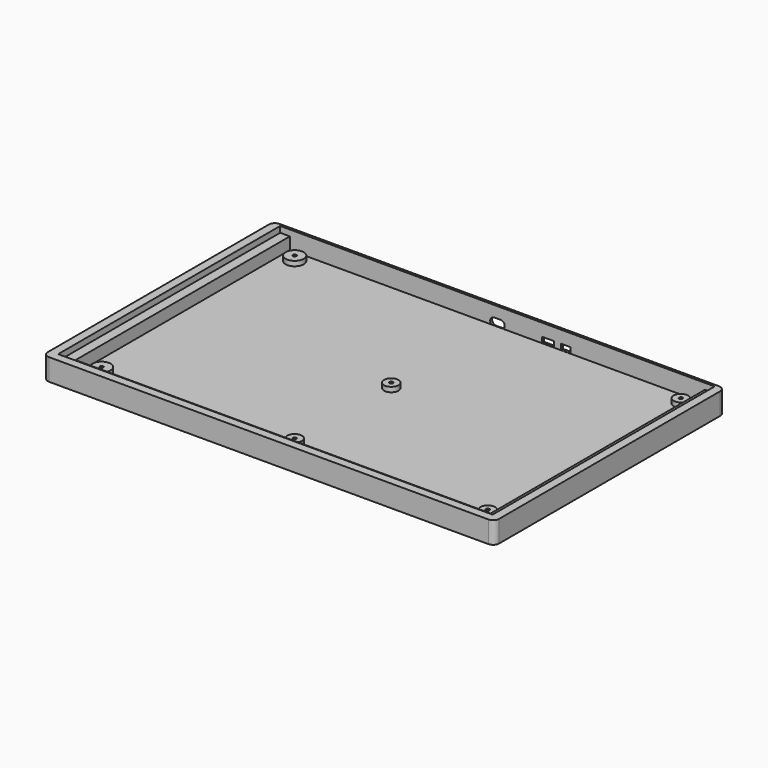
from build123d import *

# Parameters (mm, degrees)
SKETCH_W        = 374
SKETCH_H        = 239
PAD_DEPTH       = 18
SKETCH001_W     = 344
SKETCH001_H     = 222
POCKET_DEPTH    = 15
SKETCH002_R     = 6
SKETCH002_R_2   = 7.5
PAD001_DEPTH    = 4
SKETCH003_R     = 1.45
HOLE_DEPTH      = 25
POCKET001_DEPTH = 4.5
SKETCH005_W     = 360
SKETCH005_H     = 230
POCKET002_DEPTH = 5
SKETCH006_W     = 7.9
SKETCH006_H     = 4.6
SKETCH006_W_2   = 9.8
SKETCH006_H_2   = 4.5
POCKET003_DEPTH = 2
SKETCH011_R     = 6
HOLE004_DEPTH   = 2
FILLET_R        = 5


with BuildPart() as part:
    # Sketch → Pad (new body)
    with BuildSketch(Plane.XY):
        with Locations((0, -117.5)):
            Rectangle(SKETCH_W, SKETCH_H)
    extrude(amount=PAD_DEPTH)

    # Sketch001 (on Face6 of Pad) → Pocket (cut)
    with BuildSketch(Plane.XY.offset(18)):
        with Locations((0, -111)):
            Rectangle(SKETCH001_W, SKETCH001_H)
    extrude(amount=-POCKET_DEPTH, mode=Mode.SUBTRACT)

    # Sketch002 (on Face11 of Pocket) → Pad001 (join)
    with BuildSketch(Plane.XY.offset(3)):
        with Locations((0, -110)):
            Circle(SKETCH002_R)
        with Locations((160, -10)):
            Circle(SKETCH002_R)
        with Locations((160, -210)):
            Circle(SKETCH002_R)
        with Locations((0, -210)):
            Circle(SKETCH002_R)
        with Locations((-160, -10)):
            Circle(SKETCH002_R_2)
        with Locations((-160, -210)):
            Circle(SKETCH002_R_2)
    extrude(amount=PAD001_DEPTH)

    # Sketch003 (on Face4 of Pad001) → Hole (cut)
    with BuildSketch(Plane(origin=(0, 0, 0), x_dir=(1, 0, 0), z_dir=(0, 0, -1))):
        with Locations((0, 110)):
            Circle(SKETCH003_R)
        with Locations((0, 210)):
            Circle(SKETCH003_R)
        with Locations((-160, 10)):
            Circle(SKETCH003_R)
        with Locations((-160, 210)):
            Circle(SKETCH003_R)
        with Locations((160, 10)):
            Circle(SKETCH003_R)
        with Locations((160, 210)):
            Circle(SKETCH003_R)
    extrude(amount=-HOLE_DEPTH, mode=Mode.SUBTRACT)

    # Sketch004 (on Face4 of Hole) → Pocket001 (cut)
    with BuildSketch(Plane(origin=(0, 0, 0), x_dir=(1, 0, 0), z_dir=(0, 0, -1))):
        Polygon((2.6, 111.501111), (0, 113.002221), (-2.6, 111.501111), (-2.6, 108.498889), (0, 106.997779), (2.6, 108.498889), align=None)
        Polygon((2.6, 208.498889), (2.6, 211.501111), (0, 213.002221), (-2.6, 211.501111), (-2.6, 208.498889), (0, 206.997779), align=None)
        Polygon((162.6, 208.498889), (162.6, 211.501111), (160, 213.002221), (157.4, 211.501111), (157.4, 208.498889), (160, 206.997779), align=None)
        Polygon((162.6, 8.498889), (162.6, 11.501111), (160, 13.002221), (157.4, 11.501111), (157.4, 8.498889), (160, 6.997779), align=None)
        Polygon((-157.4, 8.498889), (-157.4, 11.501111), (-160, 13.002221), (-162.6, 11.501111), (-162.6, 8.498889), (-160, 6.997779), align=None)
        Polygon((-157.4, 208.498889), (-157.4, 211.501111), (-160, 213.002221), (-162.6, 211.501111), (-162.6, 208.498889), (-160, 206.997779), align=None)
    extrude(amount=-POCKET001_DEPTH, mode=Mode.SUBTRACT)

    # Sketch005 (on Face5 of Pocket001) → Pocket002 (cut)
    with BuildSketch(Plane.XY.offset(18)):
        with Locations((0, -115)):
            Rectangle(SKETCH005_W, SKETCH005_H)
    extrude(amount=-POCKET002_DEPTH, mode=Mode.SUBTRACT)

    # Sketch006 (on Pad) → Pocket003 (cut)
    with BuildSketch(Plane.XZ):
        with BuildLine():
            ThreePointArc((-2.6, 8.9), (-6, 5.5), (-2.6, 2.1))
            Line((-2.6, 2.1), (2.6, 2.1))
            ThreePointArc((2.6, 2.1), (6, 5.5), (2.6, 8.9))
            Line((2.6, 8.9), (-2.6, 8.9))
        make_face()
        with Locations((56.5, 5.5)):
            Rectangle(SKETCH006_W, SKETCH006_H)
        with Locations((42, 5.5)):
            Rectangle(SKETCH006_W_2, SKETCH006_H_2)
    extrude(amount=-POCKET003_DEPTH, mode=Mode.SUBTRACT)

    # Sketch011 (on Face4 of Pad001) → Hole004 (cut)
    with BuildSketch(Plane(origin=(0, 0, 0), x_dir=(1, 0, 0), z_dir=(0, 0, -1))):
        with Locations((0, 110)):
            Circle(SKETCH011_R)
        with Locations((0, 210)):
            Circle(SKETCH011_R)
        with Locations((-160, 10)):
            Circle(SKETCH011_R)
        with Locations((-160, 210)):
            Circle(SKETCH011_R)
        with Locations((160, 10)):
            Circle(SKETCH011_R)
        with Locations((160, 210)):
            Circle(SKETCH011_R)
    extrude(amount=-HOLE004_DEPTH, mode=Mode.SUBTRACT)

    # Fillet
    fillet_edges = [part.edges().sort_by_distance(p)[0] for p in [
        (-187, 2, 9),
        (-187, -237, 9),
        (187, 2, 9),
        (187, -237, 9),
    ]]
    fillet(fillet_edges, radius=FILLET_R)


solid = part.part
